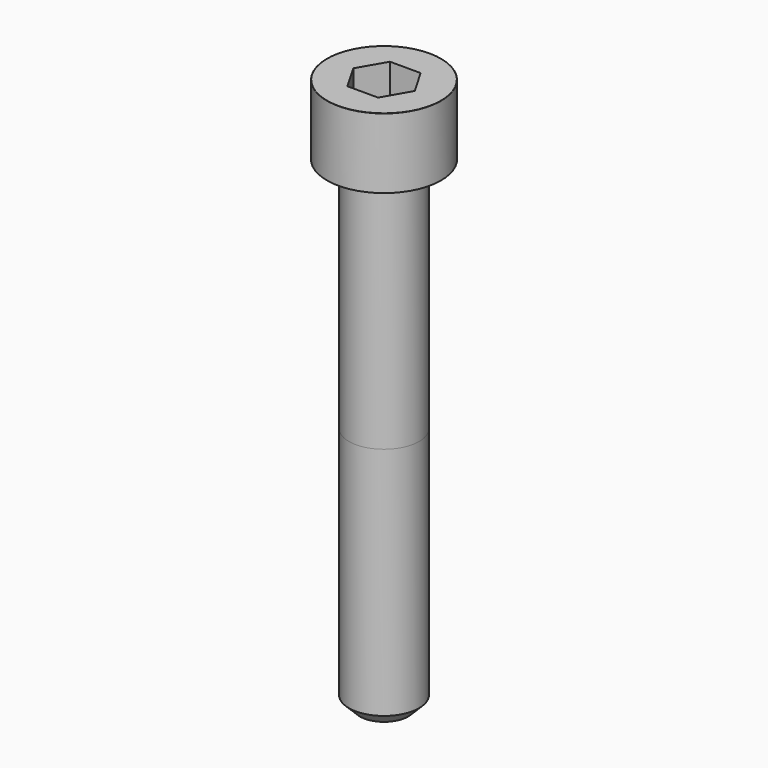
from build123d import *

# Parameters (mm, degrees)
POCKET_DEPTH = 6.06


with BuildPart() as part:
    # Sketch → Revolve (revolve)
    with BuildSketch(Plane.YZ):
        with BuildLine():
            Line((3.999, 0), (6.5, 0))
            Line((6.5, 0), (6.5, 7.97229))
            ThreePointArc((6.5, 7.97229), (6.491884, 7.991884), (6.47229, 8))
            Line((6.47229, 8), (0, 8))
            Line((0, -55), (0, 8))
            Line((2.75, -55), (0, -55))
            Line((4, -53.75), (2.75, -55))
            Line((4, -27), (4, -53.75))
            Line((3.999, 0), (4, -27))
        make_face()
    revolve(axis=Axis((0, 0, 0), (0, 0, 1)))

    # Sketch001 → Pocket (cut)
    with BuildSketch(Plane.XY.offset(8)):
        Polygon((3.498743, 0), (1.749371, 3.03), (-1.749371, 3.03), (-3.498743, 0), (-1.749371, -3.03), (1.749371, -3.03), align=None)
    extrude(amount=-POCKET_DEPTH, mode=Mode.SUBTRACT)


solid = part.part
